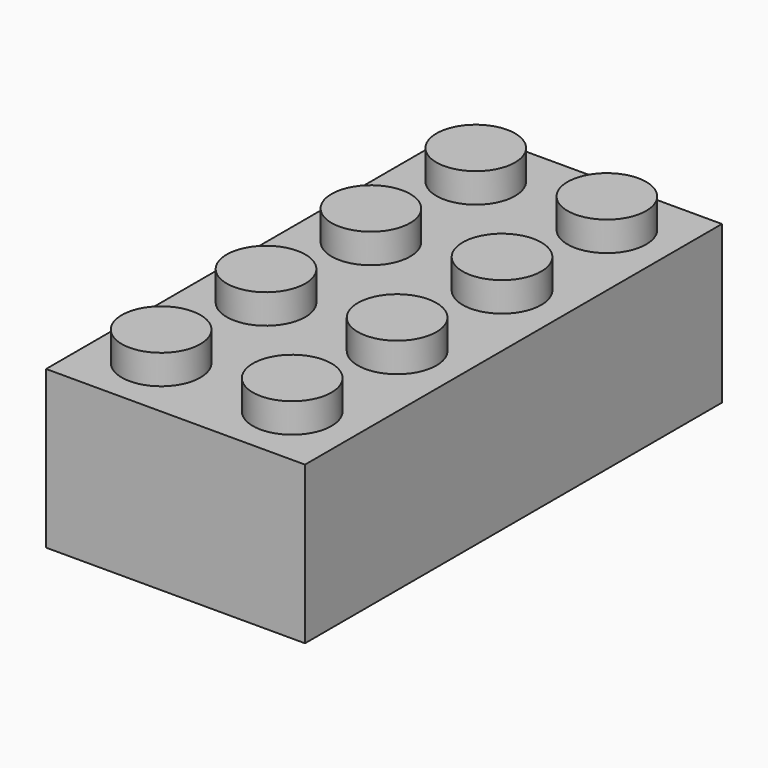
from build123d import *

# Parameters (mm, degrees)
F0_W     = 401.32
F0_H     = 807.72
F1_DEPTH = 243.84
F2_R     = 60.96
F3_DEPTH = 45.72
F4_W     = 340.36
F4_H     = 746.76
F5_DEPTH = 213.36
F6_R     = 82.55
F6_R_2   = 63.178676
F7_DEPTH = 213.36


with BuildPart() as f1:
    # F0 (on Top) → F1 (new body)
    with BuildSketch(Plane.XY):
        Rectangle(F0_W, F0_H)
    extrude(amount=F1_DEPTH)

    # F2 (on face) → F3 (join)
    with BuildSketch(Plane.XY.offset(243.84)):
        with Locations((101.6, 304.8)):
            Circle(F2_R)
        with Locations((101.6, 101.6)):
            Circle(F2_R)
        with Locations((101.6, -101.6)):
            Circle(F2_R)
        with Locations((101.6, -304.8)):
            Circle(F2_R)
        with Locations((-101.6, 304.8)):
            Circle(F2_R)
        with Locations((-101.6, 101.6)):
            Circle(F2_R)
        with Locations((-101.6, -101.6)):
            Circle(F2_R)
        with Locations((-101.6, -304.8)):
            Circle(F2_R)
    extrude(amount=F3_DEPTH)

    # F4 (on face) → F5 (cut)
    with BuildSketch(Plane(origin=(0, 0, 0), x_dir=(1, 0, 0), z_dir=(0, 0, -1))):
        Rectangle(F4_W, F4_H)
    extrude(amount=-F5_DEPTH, mode=Mode.SUBTRACT)

    # F6 (on face) → F7 (join)
    with BuildSketch(Plane(origin=(0, 0, 213.36), x_dir=(1, 0, 0), z_dir=(0, 0, -1))):
        Circle(F6_R)
        Circle(F6_R_2, mode=Mode.SUBTRACT)
        with Locations((0, 203.2)):
            Circle(F6_R)
        with Locations((0, 203.2)):
            Circle(F6_R_2, mode=Mode.SUBTRACT)
        with Locations((0, -203.2)):
            Circle(F6_R)
        with Locations((0, -203.2)):
            Circle(F6_R_2, mode=Mode.SUBTRACT)
    extrude(amount=F7_DEPTH)


solid = f1.part
